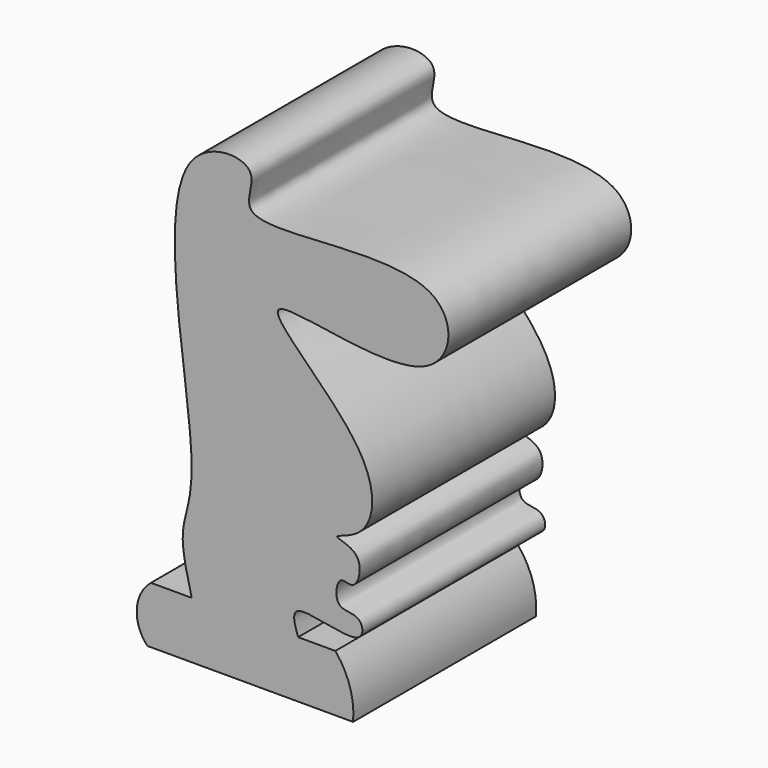
from build123d import *

# Parameters (mm, degrees)
F1_DEPTH = 25


with BuildPart() as f1:
    # F0 (on Front) → F1 (new body)
    with BuildSketch(Plane.XZ):
        with BuildLine():
            add(Edge.make_bspline(
                [(-13.6745693162, -16.9719830155), (-14.2207603255, -14.832323174), (-15.3465172056, -10.4222601246), (-11.8064930446, -4.880343157), (-19.7109667315, 27.7546687901), (-5.1461186078, 27.419091852), (-10.7249980352, 19.0789989107), (15.8247491833, 25.6969328526), (14.4481639577, 9.1548162897), (-12.9115386823, 18.3402250091), (7.4152078599, 3.7005077867), (5.9969244512, -5.1728600392), (0.7905132093, -5.9276431522), (5.379382883, -6.436009308), (4.3482554482, -10.8396572747), (2.2671265864, -9.187384567), (1.7829704583, -13.1595985127), (4.9267927156, -12.3933106142), (5.4437526196, -16.3658976379), (-3.3874651855, -12.9669316645), (-2.4099380187, -15.8651909563), (-2.0366383251, -16.9719830155)],
                knots=[0, 0, 0, 0, 0.0522941289, 0.1077836772, 0.2224595794, 0.2763740068, 0.3170802477, 0.4110143842, 0.4678729629, 0.552896367, 0.6323410561, 0.691372245, 0.7255545974, 0.7585884053, 0.7948914149, 0.8195820734, 0.8519657114, 0.8838931386, 0.911889716, 0.9663522988, 1, 1, 1, 1], degree=3))
            Line((-13.6745693162, -16.9719830155), (-2.0366383251, -16.9719830155))
        make_face()
        with BuildLine():
            ThreePointArc((-18.1357767433, -16.9719830155), (-19.6843512773, -19.9907689424), (-18.5237079859, -23.1788810343))
            Line((-18.5237079859, -23.1788810343), (3.9762938395, -23.1788810343))
            ThreePointArc((3.9762938395, -23.1788810343), (3.6232002517, -19.8827026085), (2.0366383251, -16.9719830155))
            Line((2.0366383251, -16.9719830155), (-2.0366383251, -16.9719830155))
            Line((-2.0366383251, -16.9719830155), (-13.6745693162, -16.9719830155))
            Line((-13.6745693162, -16.9719830155), (-18.1357767433, -16.9719830155))
        make_face()
    extrude(amount=F1_DEPTH)


solid = f1.part
